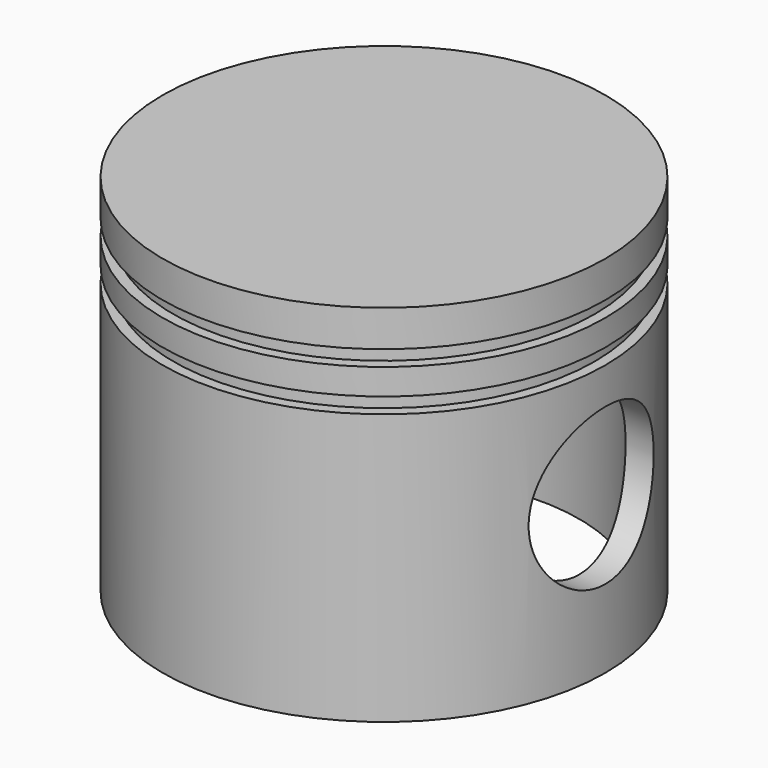
from build123d import *

# Parameters (mm, degrees)
SKETCH_R          = 42.5
PAD_DEPTH         = 70
THICKNESS_T       = -5
SKETCH001_R       = 15
POCKET_DEPTH      = 50
POCKET_DEPTH_BACK = -50
SKETCH002_W       = 2
SKETCH002_H       = 3


with BuildPart() as part:
    # Sketch → Pad (new body)
    with BuildSketch(Plane.XY):
        Circle(SKETCH_R)
    extrude(amount=PAD_DEPTH)

    # Thickness
    thickness_openings = [part.faces().sort_by_distance(p)[0] for p in [
        (0, 0, 0),
    ]]
    offset(amount=THICKNESS_T, openings=thickness_openings)

    # Sketch001 → Pocket (cut, two sides)
    with BuildSketch(Plane.YZ) as pocket_sk:
        with Locations((0, 30)):
            Circle(SKETCH001_R)
    extrude(amount=-POCKET_DEPTH, mode=Mode.SUBTRACT)
    extrude(pocket_sk.sketch, amount=-POCKET_DEPTH_BACK, mode=Mode.SUBTRACT)

    # Sketch002 → Groove (revolve, cut)
    with BuildSketch(Plane.XZ):
        with Locations((41.5, 61.5)):
            Rectangle(SKETCH002_W, SKETCH002_H)
        with Locations((41.5, 53.5)):
            Rectangle(SKETCH002_W, SKETCH002_H)
    revolve(axis=Axis((0, 0, 0), (0, 0, 1)), mode=Mode.SUBTRACT)


solid = part.part
